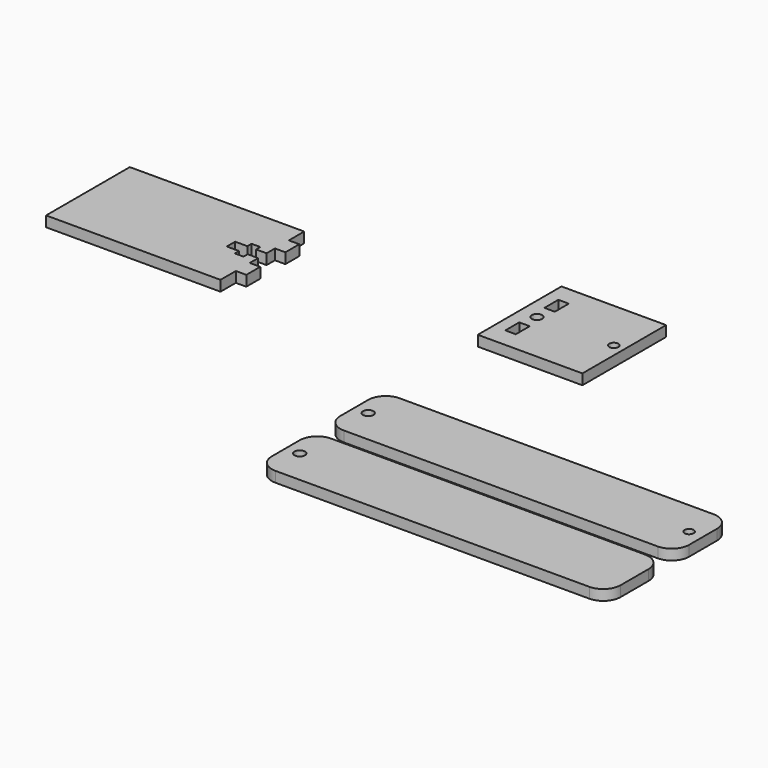
from build123d import *

# Parameters (mm, degrees)
F2_DEPTH = 3
F1_W     = 30
F1_H     = 30
F1_W_2   = 3
F1_H_2   = 5
F1_R     = 1.5
F1_R_2   = 1.3
F3_DEPTH = 3
F4_R     = 1.5
F4_R_2   = 1.3
F5_DEPTH = 3
F6_DEPTH = 3


with BuildPart() as f2:
    # F0 (on Top) → F2 (new body)
    with BuildSketch(Plane.XY):
        Polygon((-38.935582, 24.5), (-41.935582, 24.5), (-41.935582, 30), (-91.935582, 30), (-91.935582, 0), (-41.935582, 0), (-41.935582, 5.5), (-38.935582, 5.5), (-38.935582, 10.5), (-41.935582, 10.5), (-41.935582, 13.5), (-44.935582, 13.5), (-44.935582, 12), (-47.435582, 12), (-47.435582, 13.5), (-50.935582, 13.5), (-50.935582, 16.5), (-47.435582, 16.5), (-47.435582, 18), (-44.935582, 18), (-44.935582, 16.5), (-41.935582, 16.5), (-41.935582, 19.5), (-38.935582, 19.5), align=None)
    extrude(amount=F2_DEPTH)


with BuildPart() as f3:
    # F1 (on Top) → F3 (new body)
    with BuildSketch(Plane.XY):
        with Locations((34.664549, 30.189171)):
            Rectangle(F1_W, F1_H)
        with Locations((24.664549, 23.189171)):
            Rectangle(F1_W_2, F1_H_2, mode=Mode.SUBTRACT)
        with Locations((24.664549, 30.189171)):
            Circle(F1_R, mode=Mode.SUBTRACT)
        with Locations((46.664549, 30.189171)):
            Circle(F1_R_2, mode=Mode.SUBTRACT)
        with Locations((24.664549, 37.189171)):
            Rectangle(F1_W_2, F1_H_2, mode=Mode.SUBTRACT)
    extrude(amount=F3_DEPTH)


with BuildPart() as f5:
    # F4 (on Top) → F5 (new body)
    with BuildSketch(Plane.XY):
        with BuildLine():
            Line((115.236325, -19.777222), (25.236325, -19.777222))
            ThreePointArc((25.236325, -19.777222), (21.700791, -21.241688), (20.236325, -24.777222))
            Line((20.236325, -24.777222), (20.236325, -34.777222))
            ThreePointArc((20.236325, -34.777222), (21.700791, -38.312756), (25.236325, -39.777222))
            Line((25.236325, -39.777222), (115.236325, -39.777222))
            ThreePointArc((115.236325, -39.777222), (118.771859, -38.312756), (120.236325, -34.777222))
            Line((120.236325, -34.777222), (120.236325, -24.777222))
            ThreePointArc((120.236325, -24.777222), (118.771859, -21.241688), (115.236325, -19.777222))
        make_face()
        with Locations((24.236325, -29.777222)):
            Circle(F4_R, mode=Mode.SUBTRACT)
        with Locations((116.236325, -29.777222)):
            Circle(F4_R_2, mode=Mode.SUBTRACT)
    extrude(amount=F5_DEPTH)


with BuildPart() as f6:
    # F4 (on Top) → F6 (new body)
    with BuildSketch(Plane.XY):
        with BuildLine():
            Line((115.484388, -44.625802), (25.484388, -44.625802))
            ThreePointArc((25.484388, -44.625802), (21.948854, -46.090269), (20.484388, -49.625802))
            Line((20.484388, -49.625802), (20.484388, -59.625802))
            ThreePointArc((20.484388, -59.625802), (21.948854, -63.161336), (25.484388, -64.625802))
            Line((25.484388, -64.625802), (115.484388, -64.625802))
            ThreePointArc((115.484388, -64.625802), (119.019922, -63.161336), (120.484388, -59.625802))
            Line((120.484388, -59.625802), (120.484388, -49.625802))
            ThreePointArc((120.484388, -49.625802), (119.019922, -46.090269), (115.484388, -44.625802))
        make_face()
        with Locations((24.484388, -54.625802)):
            Circle(F4_R, mode=Mode.SUBTRACT)
    extrude(amount=F6_DEPTH)


solid = Compound([f2.part, f3.part, f5.part, f6.part])
